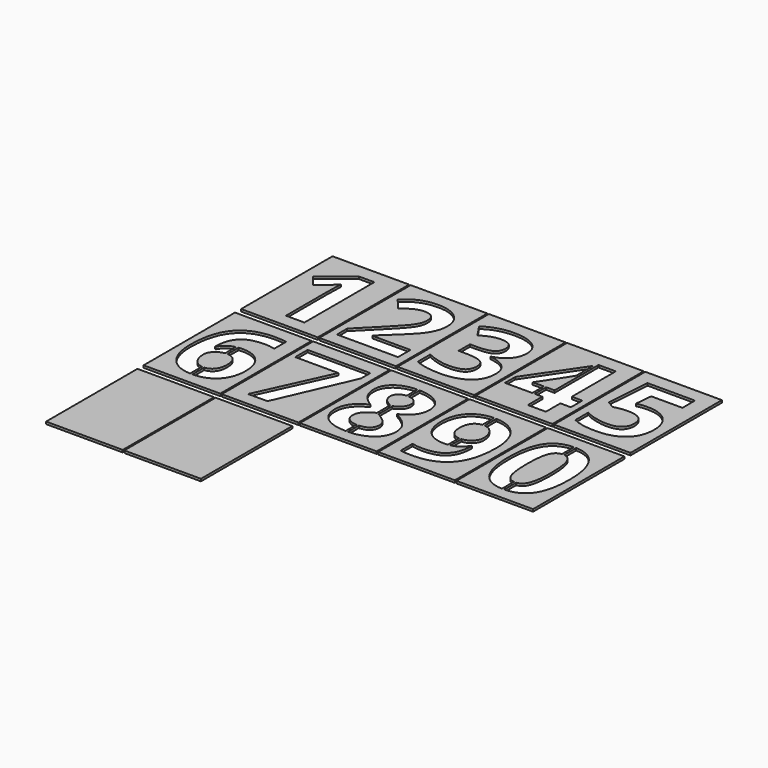
from build123d import *

# Parameters (mm, degrees)
F0_W      = 100
F0_H      = 149
F1_DEPTH  = 3
F2_W      = 3
F2_H      = 18.7174479167
F3_DEPTH  = 3
F4_W      = 3
F4_H      = 78.767856583
F5_DEPTH  = 3
F6_W      = 3
F6_H      = 129.1774585843
F7_DEPTH  = 3
F9_DEPTH  = 3
F10_W     = 3
F10_H     = 128.0932743102
F11_DEPTH = 3


with BuildPart() as f1:
    # F0 (on Top) → F1 (new body)
    with BuildSketch(Plane.XY):
        with Locations((-204, 238.5)):
            Rectangle(F0_W, F0_H)
        with BuildLine():
            Line((-185.0147569444, 295.0266927083), (-185.0147569444, 181))
            Line((-185.0147569444, 181), (-209.1228298611, 181))
            Line((-209.1228298611, 181), (-209.1228298611, 246.9852430556))
            Line((-209.1228298611, 246.9852430556), (-208.8732638889, 257.81640625))
            Line((-208.8732638889, 257.81640625), (-208.4989149306, 269.6707899306))
            add(Edge.make_bspline(
                [(-208.4989149306, 269.6707899306), (-214.4884982639, 263.6812065972), (-216.8344184028, 261.8094618056)],
                knots=[0, 0, 0, 1, 1, 1], degree=2))
            Line((-216.8344184028, 261.8094618056), (-229.9366319444, 251.2777777778))
            Line((-229.9366319444, 251.2777777778), (-241.56640625, 265.7775607639))
            Line((-241.56640625, 265.7775607639), (-204.8302951389, 295.0266927083))
            Line((-204.8302951389, 295.0266927083), (-185.0147569444, 295.0266927083))
        make_face(mode=Mode.SUBTRACT)
    extrude(amount=F1_DEPTH)


with BuildPart() as f1b:
    # F0 (on Top) → F1, piece 2 (new body)
    with BuildSketch(Plane.XY):
        with Locations((-102, 238.5)):
            Rectangle(F0_W, F0_H)
        with BuildLine():
            Line((-62.8997395833, 201.2897135417), (-62.8997395833, 181))
            Line((-62.8997395833, 181), (-142.6111111111, 181))
            Line((-142.6111111111, 181), (-142.6111111111, 197.7708333333))
            Line((-142.6111111111, 197.7708333333), (-113.9858940972, 226.6955295139))
            add(Edge.make_bspline(
                [(-113.9858940972, 226.6955295139), (-101.2580295139, 239.7228732639), (-97.3648003472, 244.7516276042)],
                knots=[0, 0, 0, 1, 1, 1], degree=2))
            add(Edge.make_bspline(
                [(-97.3648003472, 244.7516276042), (-93.4715711806, 249.7803819444), (-91.7495659722, 254.0729166667)],
                knots=[0, 0, 0, 1, 1, 1], degree=2))
            add(Edge.make_bspline(
                [(-91.7495659722, 254.0729166667), (-90.0275607639, 258.3654513889), (-90.0275607639, 262.9574652778)],
                knots=[0, 0, 0, 1, 1, 1], degree=2))
            add(Edge.make_bspline(
                [(-90.0275607639, 262.9574652778), (-90.0275607639, 269.8205295139), (-93.8209635417, 273.1771918403)],
                knots=[0, 0, 0, 1, 1, 1], degree=2))
            add(Edge.make_bspline(
                [(-93.8209635417, 273.1771918403), (-97.6143663194, 276.5338541667), (-103.9283854167, 276.5338541667)],
                knots=[0, 0, 0, 1, 1, 1], degree=2))
            add(Edge.make_bspline(
                [(-103.9283854167, 276.5338541667), (-110.5418836806, 276.5338541667), (-116.7810329861, 273.4891493056)],
                knots=[0, 0, 0, 1, 1, 1], degree=2))
            add(Edge.make_bspline(
                [(-116.7810329861, 273.4891493056), (-123.0201822917, 270.4444444444), (-129.8083767361, 264.8292100694)],
                knots=[0, 0, 0, 1, 1, 1], degree=2))
            Line((-129.8083767361, 264.8292100694), (-142.9105902778, 280.3522135417))
            add(Edge.make_bspline(
                [(-142.9105902778, 280.3522135417), (-134.5002170139, 287.5397135417), (-128.9598524306, 290.4970703125)],
                knots=[0, 0, 0, 1, 1, 1], degree=2))
            add(Edge.make_bspline(
                [(-128.9598524306, 290.4970703125), (-123.4194878472, 293.4544270833), (-116.8683810764, 295.0516493056)],
                knots=[0, 0, 0, 1, 1, 1], degree=2))
            add(Edge.make_bspline(
                [(-116.8683810764, 295.0516493056), (-110.3172743056, 296.6488715278), (-102.2063802083, 296.6488715278)],
                knots=[0, 0, 0, 1, 1, 1], degree=2))
            add(Edge.make_bspline(
                [(-102.2063802083, 296.6488715278), (-91.5249565972, 296.6488715278), (-83.3391927083, 292.7556423611)],
                knots=[0, 0, 0, 1, 1, 1], degree=2))
            add(Edge.make_bspline(
                [(-83.3391927083, 292.7556423611), (-75.1534288194, 288.8624131944), (-70.6238064236, 281.8371310764)],
                knots=[0, 0, 0, 1, 1, 1], degree=2))
            add(Edge.make_bspline(
                [(-70.6238064236, 281.8371310764), (-66.0941840278, 274.8118489583), (-66.0941840278, 265.7775607639)],
                knots=[0, 0, 0, 1, 1, 1], degree=2))
            add(Edge.make_bspline(
                [(-66.0941840278, 265.7775607639), (-66.0941840278, 257.8912760417), (-68.8643663194, 250.9907769097)],
                knots=[0, 0, 0, 1, 1, 1], degree=2))
            add(Edge.make_bspline(
                [(-68.8643663194, 250.9907769097), (-71.6345486111, 244.0902777778), (-77.4494357639, 236.8403862847)],
                knots=[0, 0, 0, 1, 1, 1], degree=2))
            add(Edge.make_bspline(
                [(-77.4494357639, 236.8403862847), (-83.2643229167, 229.5904947917), (-97.9138454861, 216.1638454861)],
                knots=[0, 0, 0, 1, 1, 1], degree=2))
            Line((-97.9138454861, 216.1638454861), (-112.5883246528, 202.3628472222))
            Line((-112.5883246528, 202.3628472222), (-112.5883246528, 201.2897135417))
            Line((-112.5883246528, 201.2897135417), (-62.8997395833, 201.2897135417))
        make_face(mode=Mode.SUBTRACT)
    extrude(amount=F1_DEPTH)


with BuildPart() as f1c:
    # F0 (on Top) → F1, piece 3 (new body)
    with BuildSketch(Plane.XY):
        with Locations((0, 238.5)):
            Rectangle(F0_W, F0_H)
        with BuildLine():
            add(Edge.make_bspline(
                [(24.4008246528, 289.4738498264), (34.6579861111, 282.298828125), (34.6579861111, 269.5210503472)],
                knots=[0, 0, 0, 1, 1, 1], degree=2))
            add(Edge.make_bspline(
                [(34.6579861111, 269.5210503472), (34.6579861111, 258.8396267361), (28.1817491319, 251.3526475694)],
                knots=[0, 0, 0, 1, 1, 1], degree=2))
            add(Edge.make_bspline(
                [(28.1817491319, 251.3526475694), (21.7055121528, 243.8656684028), (10.0008680556, 241.0455729167)],
                knots=[0, 0, 0, 1, 1, 1], degree=2))
            Line((10.0008680556, 241.0455729167), (10.0008680556, 240.5963541667))
            add(Edge.make_bspline(
                [(10.0008680556, 240.5963541667), (23.8268229167, 238.8743489583), (30.9144965278, 232.1984592014)],
                knots=[0, 0, 0, 1, 1, 1], degree=2))
            add(Edge.make_bspline(
                [(30.9144965278, 232.1984592014), (38.0021701389, 225.5225694444), (38.0021701389, 214.2172309028)],
                knots=[0, 0, 0, 1, 1, 1], degree=2))
            add(Edge.make_bspline(
                [(38.0021701389, 214.2172309028), (38.0021701389, 197.7708333333), (26.0729166667, 188.5992838542)],
                knots=[0, 0, 0, 1, 1, 1], degree=2))
            add(Edge.make_bspline(
                [(26.0729166667, 188.5992838542), (14.1436631944, 179.427734375), (-7.9928385417, 179.427734375)],
                knots=[0, 0, 0, 1, 1, 1], degree=2))
            add(Edge.make_bspline(
                [(-7.9928385417, 179.427734375), (-26.560546875, 179.427734375), (-40.9105902778, 185.5920138889)],
                knots=[0, 0, 0, 1, 1, 1], degree=2))
            Line((-40.9105902778, 185.5920138889), (-40.9105902778, 206.1063368056))
            add(Edge.make_bspline(
                [(-40.9105902778, 206.1063368056), (-34.2970920139, 202.7621527778), (-26.3359375, 200.6533203125)],
                knots=[0, 0, 0, 1, 1, 1], degree=2))
            add(Edge.make_bspline(
                [(-26.3359375, 200.6533203125), (-18.3747829861, 198.5444878472), (-10.5883246528, 198.5444878472)],
                knots=[0, 0, 0, 1, 1, 1], degree=2))
            add(Edge.make_bspline(
                [(-10.5883246528, 198.5444878472), (1.3658854167, 198.5444878472), (7.0559895833, 202.5999348958)],
                knots=[0, 0, 0, 1, 1, 1], degree=2))
            add(Edge.make_bspline(
                [(7.0559895833, 202.5999348958), (12.74609375, 206.6553819444), (12.74609375, 215.6397569444)],
                knots=[0, 0, 0, 1, 1, 1], degree=2))
            add(Edge.make_bspline(
                [(12.74609375, 215.6397569444), (12.74609375, 223.6508246528), (6.1949869792, 227.0074869792)],
                knots=[0, 0, 0, 1, 1, 1], degree=2))
            add(Edge.make_bspline(
                [(6.1949869792, 227.0074869792), (-0.3561197917, 230.3641493056), (-14.7061631944, 230.3641493056)],
                knots=[0, 0, 0, 1, 1, 1], degree=2))
            Line((-14.7061631944, 230.3641493056), (-23.3661024306, 230.3641493056))
            Line((-23.3661024306, 230.3641493056), (-23.3661024306, 248.8569878472))
            Line((-23.3661024306, 248.8569878472), (-14.5564236111, 248.8569878472))
            add(Edge.make_bspline(
                [(-14.5564236111, 248.8569878472), (-1.3044704861, 248.8569878472), (4.8223741319, 252.3259548611)],
                knots=[0, 0, 0, 1, 1, 1], degree=2))
            add(Edge.make_bspline(
                [(4.8223741319, 252.3259548611), (10.94921875, 255.794921875), (10.94921875, 264.2052951389)],
                knots=[0, 0, 0, 1, 1, 1], degree=2))
            add(Edge.make_bspline(
                [(10.94921875, 264.2052951389), (10.94921875, 277.1577690972), (-5.2725694444, 277.1577690972)],
                knots=[0, 0, 0, 1, 1, 1], degree=2))
            add(Edge.make_bspline(
                [(-5.2725694444, 277.1577690972), (-10.8878038194, 277.1577690972), (-16.7026909722, 275.2860243056)],
                knots=[0, 0, 0, 1, 1, 1], degree=2))
            add(Edge.make_bspline(
                [(-16.7026909722, 275.2860243056), (-22.517578125, 273.4142795139), (-29.6052517361, 268.822265625)],
                knots=[0, 0, 0, 1, 1, 1], degree=2))
            Line((-29.6052517361, 268.822265625), (-40.7608506944, 285.4184027778))
            add(Edge.make_bspline(
                [(-40.7608506944, 285.4184027778), (-25.1629774306, 296.6488715278), (-3.5505642361, 296.6488715278)],
                knots=[0, 0, 0, 1, 1, 1], degree=2))
            add(Edge.make_bspline(
                [(-3.5505642361, 296.6488715278), (14.1436631944, 296.6488715278), (24.4008246528, 289.4738498264)],
                knots=[0, 0, 0, 1, 1, 1], degree=2))
        make_face(mode=Mode.SUBTRACT)
    extrude(amount=F1_DEPTH)


with BuildPart() as f1d:
    # F0 (on Top) → F1, piece 4 (new body)
    with BuildSketch(Plane.XY):
        with Locations((102, 238.5)):
            Rectangle(F0_W, F0_H)
        Polygon((143.6707899306, 223.3513454861), (143.6707899306, 204.6338975694), (129.9446614583, 204.6338975694), (129.9446614583, 181), (106.3856336806, 181), (106.3856336806, 204.6338975694), (57.7202690972, 204.6338975694), (57.7202690972, 221.4047309028), (107.7332899306, 295.0266927083), (129.9446614583, 295.0266927083), (129.9446614583, 223.3513454861), align=None, mode=Mode.SUBTRACT)
    extrude(amount=F1_DEPTH)



with BuildPart() as f1e:
    # F0 (on Top) → F1, piece 5 (new body)
    with BuildSketch(Plane.XY):
        with BuildLine():
            Line((78.9333767361, 223.3513454861), (106.3856336806, 223.3513454861))
            Line((106.3856336806, 223.3513454861), (106.3856336806, 242.6927083333))
            add(Edge.make_bspline(
                [(106.3856336806, 242.6927083333), (106.3856336806, 247.5342881944), (106.7849392361, 256.7307942708)],
                knots=[0, 0, 0, 1, 1, 1], degree=2))
            add(Edge.make_bspline(
                [(106.7849392361, 256.7307942708), (107.1842447917, 265.9273003472), (107.4088541667, 267.4246961806)],
                knots=[0, 0, 0, 1, 1, 1], degree=2))
            Line((107.4088541667, 267.4246961806), (106.7849392361, 267.4246961806))
            add(Edge.make_bspline(
                [(106.7849392361, 267.4246961806), (103.8899739583, 261.0108506944), (99.8470052083, 254.9463975694)],
                knots=[0, 0, 0, 1, 1, 1], degree=2))
            Line((99.8470052083, 254.9463975694), (78.9333767361, 223.3513454861))
        make_face()
    extrude(amount=F1_DEPTH)


with BuildPart() as f1f:
    # F0 (on Top) → F1, piece 6 (new body)
    with BuildSketch(Plane.XY):
        with Locations((204, 238.5)):
            Rectangle(F0_W, F0_H)
        with BuildLine():
            add(Edge.make_bspline(
                [(193.1399739583, 252.7502170139), (197.9066840278, 253.8483072917), (204.9194878472, 253.8483072917)],
                knots=[0, 0, 0, 1, 1, 1], degree=2))
            add(Edge.make_bspline(
                [(204.9194878472, 253.8483072917), (221.4407552083, 253.8483072917), (231.2362196181, 244.564453125)],
                knots=[0, 0, 0, 1, 1, 1], degree=2))
            add(Edge.make_bspline(
                [(231.2362196181, 244.564453125), (241.0316840278, 235.2805989583), (241.0316840278, 219.1336805556)],
                knots=[0, 0, 0, 1, 1, 1], degree=2))
            add(Edge.make_bspline(
                [(241.0316840278, 219.1336805556), (241.0316840278, 200.0418836806), (229.2521701389, 189.7348090278)],
                knots=[0, 0, 0, 1, 1, 1], degree=2))
            add(Edge.make_bspline(
                [(229.2521701389, 189.7348090278), (217.47265625, 179.427734375), (195.5607638889, 179.427734375)],
                knots=[0, 0, 0, 1, 1, 1], degree=2))
            add(Edge.make_bspline(
                [(195.5607638889, 179.427734375), (176.5188802083, 179.427734375), (164.8391927083, 185.5920138889)],
                knots=[0, 0, 0, 1, 1, 1], degree=2))
            Line((164.8391927083, 185.5920138889), (164.8391927083, 206.4307725694))
            add(Edge.make_bspline(
                [(164.8391927083, 206.4307725694), (170.978515625, 203.1614583333), (179.1767578125, 201.0900607639)],
                knots=[0, 0, 0, 1, 1, 1], degree=2))
            add(Edge.make_bspline(
                [(179.1767578125, 201.0900607639), (187.375, 199.0186631944), (194.6872829861, 199.0186631944)],
                knots=[0, 0, 0, 1, 1, 1], degree=2))
            add(Edge.make_bspline(
                [(194.6872829861, 199.0186631944), (216.7738715278, 199.0186631944), (216.7738715278, 217.1121961806)],
                knots=[0, 0, 0, 1, 1, 1], degree=2))
            add(Edge.make_bspline(
                [(216.7738715278, 217.1121961806), (216.7738715278, 234.3572048611), (193.9136284722, 234.3572048611)],
                knots=[0, 0, 0, 1, 1, 1], degree=2))
            add(Edge.make_bspline(
                [(193.9136284722, 234.3572048611), (189.7957899306, 234.3572048611), (184.8044704861, 233.5336371528)],
                knots=[0, 0, 0, 1, 1, 1], degree=2))
            add(Edge.make_bspline(
                [(184.8044704861, 233.5336371528), (179.8131510417, 232.7100694444), (176.6935763889, 231.76171875)],
                knots=[0, 0, 0, 1, 1, 1], degree=2))
            Line((176.6935763889, 231.76171875), (167.0852864583, 236.927734375))
            Line((167.0852864583, 236.927734375), (171.3778211806, 295.0266927083))
            Line((171.3778211806, 295.0266927083), (233.2202690972, 295.0266927083))
            Line((233.2202690972, 295.0266927083), (233.2202690972, 274.5872395833))
            Line((233.2202690972, 274.5872395833), (192.5160590278, 274.5872395833))
            Line((192.5160590278, 274.5872395833), (190.4197048611, 252.201171875))
            Line((190.4197048611, 252.201171875), (193.1399739583, 252.7502170139))
        make_face(mode=Mode.SUBTRACT)
    extrude(amount=F1_DEPTH)


with BuildPart() as f1g:
    # F0 (on Top) → F1, piece 7 (new body)
    with BuildSketch(Plane.XY):
        with Locations((-204, 79.5)):
            Rectangle(F0_W, F0_H)
        with BuildLine():
            add(Edge.make_bspline(
                [(-240.2811414931, 43.3628472222), (-245.384765625, 54.5933159722), (-245.384765625, 70.4407552083)],
                knots=[0, 0, 0, 1, 1, 1], degree=2))
            add(Edge.make_bspline(
                [(-245.384765625, 70.4407552083), (-245.384765625, 104.2819010417), (-231.0721571181, 120.8156467014)],
                knots=[0, 0, 0, 1, 1, 1], degree=2))
            add(Edge.make_bspline(
                [(-231.0721571181, 120.8156467014), (-216.7595486111, 137.3493923611), (-188.2092013889, 137.3493923611)],
                knots=[0, 0, 0, 1, 1, 1], degree=2))
            add(Edge.make_bspline(
                [(-188.2092013889, 137.3493923611), (-178.4761284722, 137.3493923611), (-172.9357638889, 136.1764322917)],
                knots=[0, 0, 0, 1, 1, 1], degree=2))
            Line((-172.9357638889, 136.1764322917), (-172.9357638889, 116.9099392361))
            add(Edge.make_bspline(
                [(-172.9357638889, 116.9099392361), (-179.8736979167, 118.4822048611), (-186.6618923611, 118.4822048611)],
                knots=[0, 0, 0, 1, 1, 1], degree=2))
            add(Edge.make_bspline(
                [(-186.6618923611, 118.4822048611), (-199.0653211806, 118.4822048611), (-206.9016927083, 114.7387152778)],
                knots=[0, 0, 0, 1, 1, 1], degree=2))
            add(Edge.make_bspline(
                [(-206.9016927083, 114.7387152778), (-214.7380642361, 110.9952256944), (-218.6312934028, 103.6579861111)],
                knots=[0, 0, 0, 1, 1, 1], degree=2))
            add(Edge.make_bspline(
                [(-218.6312934028, 103.6579861111), (-222.5245225694, 96.3207465278), (-223.2233072917, 82.8441840278)],
                knots=[0, 0, 0, 1, 1, 1], degree=2))
            Line((-223.2233072917, 82.8441840278), (-222.2250434028, 82.8441840278))
            add(Edge.make_bspline(
                [(-222.2250434028, 82.8441840278), (-214.4884982639, 96.0961371528), (-197.4930555556, 96.0961371528)],
                knots=[0, 0, 0, 1, 1, 1], degree=2))
            add(Edge.make_bspline(
                [(-197.4930555556, 96.0961371528), (-182.2196180556, 96.0961371528), (-173.5596788194, 86.5003255208)],
                knots=[0, 0, 0, 1, 1, 1], degree=2))
            add(Edge.make_bspline(
                [(-173.5596788194, 86.5003255208), (-164.8997395833, 76.9045138889), (-164.8997395833, 59.9839409722)],
                knots=[0, 0, 0, 1, 1, 1], degree=2))
            add(Edge.make_bspline(
                [(-164.8997395833, 59.9839409722), (-164.8997395833, 41.7406684028), (-175.1943359375, 31.0842013889)],
                knots=[0, 0, 0, 1, 1, 1], degree=2))
            add(Edge.make_bspline(
                [(-175.1943359375, 31.0842013889), (-185.4889322917, 20.427734375), (-203.7322048611, 20.427734375)],
                knots=[0, 0, 0, 1, 1, 1], degree=2))
            add(Edge.make_bspline(
                [(-203.7322048611, 20.427734375), (-216.3602430556, 20.427734375), (-225.7688802083, 26.2800564236)],
                knots=[0, 0, 0, 1, 1, 1], degree=2))
            add(Edge.make_bspline(
                [(-225.7688802083, 26.2800564236), (-235.1775173611, 32.1323784722), (-240.2811414931, 43.3628472222)],
                knots=[0, 0, 0, 1, 1, 1], degree=2))
        make_face(mode=Mode.SUBTRACT)
    extrude(amount=F1_DEPTH)



with BuildPart() as f1h:
    # F0 (on Top) → F1, piece 8 (new body)
    with BuildSketch(Plane.XY):
        with BuildLine():
            add(Edge.make_bspline(
                [(-216.5723741319, 46.0955946181), (-211.693359375, 39.6942274306), (-204.2063802083, 39.6942274306)],
                knots=[0, 0, 0, 1, 1, 1], degree=2))
            add(Edge.make_bspline(
                [(-204.2063802083, 39.6942274306), (-196.4947916667, 39.6942274306), (-192.3519965278, 44.8851996528)],
                knots=[0, 0, 0, 1, 1, 1], degree=2))
            add(Edge.make_bspline(
                [(-192.3519965278, 44.8851996528), (-188.2092013889, 50.076171875), (-188.2092013889, 59.6595052083)],
                knots=[0, 0, 0, 1, 1, 1], degree=2))
            add(Edge.make_bspline(
                [(-188.2092013889, 59.6595052083), (-188.2092013889, 68.0199652778), (-192.0774739583, 72.8116319444)],
                knots=[0, 0, 0, 1, 1, 1], degree=2))
            add(Edge.make_bspline(
                [(-192.0774739583, 72.8116319444), (-195.9457465278, 77.6032986111), (-203.7322048611, 77.6032986111)],
                knots=[0, 0, 0, 1, 1, 1], degree=2))
            add(Edge.make_bspline(
                [(-203.7322048611, 77.6032986111), (-211.0694444444, 77.6032986111), (-216.2604166667, 72.8490668403)],
                knots=[0, 0, 0, 1, 1, 1], degree=2))
            add(Edge.make_bspline(
                [(-216.2604166667, 72.8490668403), (-221.4513888889, 68.0948350694), (-221.4513888889, 61.7808159722)],
                knots=[0, 0, 0, 1, 1, 1], degree=2))
            add(Edge.make_bspline(
                [(-221.4513888889, 61.7808159722), (-221.4513888889, 52.4969618056), (-216.5723741319, 46.0955946181)],
                knots=[0, 0, 0, 1, 1, 1], degree=2))
        make_face()
    extrude(amount=F1_DEPTH)


with BuildPart() as f1i:
    # F0 (on Top) → F1, piece 9 (new body)
    with BuildSketch(Plane.XY):
        with Locations((-102, 79.5)):
            Rectangle(F0_W, F0_H)
        Polygon((-106.0247395833, 22), (-131.3057725694, 22), (-88.4802517361, 115.5872395833), (-144.7074652778, 115.5872395833), (-144.7074652778, 135.876953125), (-62.8997395833, 135.876953125), (-62.8997395833, 120.7282986111), align=None, mode=Mode.SUBTRACT)
    extrude(amount=F1_DEPTH)


with BuildPart() as f1j:
    # F0 (on Top) → F1, piece 10 (new body)
    with BuildSketch(Plane.XY):
        with Locations((0, 79.5)):
            Rectangle(F0_W, F0_H)
        with BuildLine():
            add(Edge.make_bspline(
                [(-27.7335069444, 129.9372829861), (-17.6011284722, 137.4991319444), (-1.3044704861, 137.4991319444)],
                knots=[0, 0, 0, 1, 1, 1], degree=2))
            add(Edge.make_bspline(
                [(-1.3044704861, 137.4991319444), (15.0920138889, 137.4991319444), (25.1120876736, 130.0495876736)],
                knots=[0, 0, 0, 1, 1, 1], degree=2))
            add(Edge.make_bspline(
                [(25.1120876736, 130.0495876736), (35.1321614583, 122.6000434028), (35.1321614583, 109.9720052083)],
                knots=[0, 0, 0, 1, 1, 1], degree=2))
            add(Edge.make_bspline(
                [(35.1321614583, 109.9720052083), (35.1321614583, 101.2371961806), (30.2905815972, 94.4115668403)],
                knots=[0, 0, 0, 1, 1, 1], degree=2))
            add(Edge.make_bspline(
                [(30.2905815972, 94.4115668403), (25.4490017361, 87.5859375), (14.6927083333, 82.2202690972)],
                knots=[0, 0, 0, 1, 1, 1], degree=2))
            add(Edge.make_bspline(
                [(14.6927083333, 82.2202690972), (27.4704861111, 75.3572048611), (33.0482855903, 67.9076605903)],
                knots=[0, 0, 0, 1, 1, 1], degree=2))
            add(Edge.make_bspline(
                [(33.0482855903, 67.9076605903), (38.6260850694, 60.4581163194), (38.6260850694, 51.5486111111)],
                knots=[0, 0, 0, 1, 1, 1], degree=2))
            add(Edge.make_bspline(
                [(38.6260850694, 51.5486111111), (38.6260850694, 37.5230034722), (27.6327039931, 28.9753689236)],
                knots=[0, 0, 0, 1, 1, 1], degree=2))
            add(Edge.make_bspline(
                [(27.6327039931, 28.9753689236), (16.6393229167, 20.427734375), (-1.3044704861, 20.427734375)],
                knots=[0, 0, 0, 1, 1, 1], degree=2))
            add(Edge.make_bspline(
                [(-1.3044704861, 20.427734375), (-20.0219184028, 20.427734375), (-30.7033420139, 28.3888888889)],
                knots=[0, 0, 0, 1, 1, 1], degree=2))
            add(Edge.make_bspline(
                [(-30.7033420139, 28.3888888889), (-41.384765625, 36.3500434028), (-41.384765625, 50.9246961806)],
                knots=[0, 0, 0, 1, 1, 1], degree=2))
            add(Edge.make_bspline(
                [(-41.384765625, 50.9246961806), (-41.384765625, 60.6827256944), (-36.1937934028, 68.2445746528)],
                knots=[0, 0, 0, 1, 1, 1], degree=2))
            add(Edge.make_bspline(
                [(-36.1937934028, 68.2445746528), (-31.0028211806, 75.8064236111), (-19.5477430556, 81.5963541667)],
                knots=[0, 0, 0, 1, 1, 1], degree=2))
            add(Edge.make_bspline(
                [(-19.5477430556, 81.5963541667), (-29.3057725694, 87.7356770833), (-33.5858289931, 94.7609592014)],
                knots=[0, 0, 0, 1, 1, 1], degree=2))
            add(Edge.make_bspline(
                [(-33.5858289931, 94.7609592014), (-37.8658854167, 101.7862413194), (-37.8658854167, 110.1217447917)],
                knots=[0, 0, 0, 1, 1, 1], degree=2))
            add(Edge.make_bspline(
                [(-37.8658854167, 110.1217447917), (-37.8658854167, 122.3754340278), (-27.7335069444, 129.9372829861)],
                knots=[0, 0, 0, 1, 1, 1], degree=2))
        make_face(mode=Mode.SUBTRACT)
    extrude(amount=F1_DEPTH)



with BuildPart() as f1k:
    # F0 (on Top) → F1, piece 11 (new body)
    with BuildSketch(Plane.XY):
        with BuildLine():
            add(Edge.make_bspline(
                [(8.5284288194, 116.7601996528), (4.6351996528, 119.8797743056), (-1.4542100694, 119.8797743056)],
                knots=[0, 0, 0, 1, 1, 1], degree=2))
            add(Edge.make_bspline(
                [(-1.4542100694, 119.8797743056), (-7.6184895833, 119.8797743056), (-11.3994140625, 116.7227647569)],
                knots=[0, 0, 0, 1, 1, 1], degree=2))
            add(Edge.make_bspline(
                [(-11.3994140625, 116.7227647569), (-15.1803385417, 113.5657552083), (-15.1803385417, 108.25)],
                knots=[0, 0, 0, 1, 1, 1], degree=2))
            add(Edge.make_bspline(
                [(-15.1803385417, 108.25), (-15.1803385417, 103.5831163194), (-12.1730685764, 99.8770616319)],
                knots=[0, 0, 0, 1, 1, 1], degree=2))
            add(Edge.make_bspline(
                [(-12.1730685764, 99.8770616319), (-9.1657986111, 96.1710069444), (-1.3044704861, 92.2777777778)],
                knots=[0, 0, 0, 1, 1, 1], degree=2))
            add(Edge.make_bspline(
                [(-1.3044704861, 92.2777777778), (6.3572048611, 95.8465711806), (9.3894314236, 99.5900607639)],
                knots=[0, 0, 0, 1, 1, 1], degree=2))
            add(Edge.make_bspline(
                [(9.3894314236, 99.5900607639), (12.4216579861, 103.3335503472), (12.4216579861, 108.25)],
                knots=[0, 0, 0, 1, 1, 1], degree=2))
            add(Edge.make_bspline(
                [(12.4216579861, 108.25), (12.4216579861, 113.640625), (8.5284288194, 116.7601996528)],
                knots=[0, 0, 0, 1, 1, 1], degree=2))
        make_face()
    extrude(amount=F1_DEPTH)


with BuildPart() as f1l:
    # F0 (on Top) → F1, piece 12 (new body)
    with BuildSketch(Plane.XY):
        with BuildLine():
            add(Edge.make_bspline(
                [(-2.4774305556, 71.6885850694), (-19.0735677083, 64.0269097222), (-19.0735677083, 52.3472222222)],
                knots=[0, 0, 0, 1, 1, 1], degree=2))
            add(Edge.make_bspline(
                [(-19.0735677083, 52.3472222222), (-19.0735677083, 45.6338975694), (-14.3942057292, 41.8904079861)],
                knots=[0, 0, 0, 1, 1, 1], degree=2))
            add(Edge.make_bspline(
                [(-14.3942057292, 41.8904079861), (-9.71484375, 38.1469184028), (-1.6039496528, 38.1469184028)],
                knots=[0, 0, 0, 1, 1, 1], degree=2))
            add(Edge.make_bspline(
                [(-1.6039496528, 38.1469184028), (7.35546875, 38.1469184028), (11.7977430556, 42.0027126736)],
                knots=[0, 0, 0, 1, 1, 1], degree=2))
            add(Edge.make_bspline(
                [(11.7977430556, 42.0027126736), (16.2400173611, 45.8585069444), (16.2400173611, 52.1725260417)],
                knots=[0, 0, 0, 1, 1, 1], degree=2))
            add(Edge.make_bspline(
                [(16.2400173611, 52.1725260417), (16.2400173611, 57.4134114583), (11.8351779514, 61.9679904514)],
                knots=[0, 0, 0, 1, 1, 1], degree=2))
            add(Edge.make_bspline(
                [(11.8351779514, 61.9679904514), (7.4303385417, 66.5225694444), (-2.4774305556, 71.6885850694)],
                knots=[0, 0, 0, 1, 1, 1], degree=2))
        make_face()
    extrude(amount=F1_DEPTH)


with BuildPart() as f1m:
    # F0 (on Top) → F1, piece 13 (new body)
    with BuildSketch(Plane.XY):
        with BuildLine():
            add(Edge.make_bspline(
                [(111.8136935764, 111.6066623264), (106.9346788194, 118.0080295139), (99.3728298611, 118.0080295139)],
                knots=[0, 0, 0, 1, 1, 1], degree=2))
            add(Edge.make_bspline(
                [(99.3728298611, 118.0080295139), (91.8858506944, 118.0080295139), (87.6806640625, 112.8544921875)],
                knots=[0, 0, 0, 1, 1, 1], degree=2))
            add(Edge.make_bspline(
                [(87.6806640625, 112.8544921875), (83.4754774306, 107.7009548611), (83.4754774306, 98.0427517361)],
                knots=[0, 0, 0, 1, 1, 1], degree=2))
            add(Edge.make_bspline(
                [(83.4754774306, 98.0427517361), (83.4754774306, 89.7821180556), (87.2938368056, 84.9405381944)],
                knots=[0, 0, 0, 1, 1, 1], degree=2))
            add(Edge.make_bspline(
                [(87.2938368056, 84.9405381944), (91.1121961806, 80.0989583333), (98.8986545139, 80.0989583333)],
                knots=[0, 0, 0, 1, 1, 1], degree=2))
            add(Edge.make_bspline(
                [(98.8986545139, 80.0989583333), (106.2358940972, 80.0989583333), (111.4643012153, 84.9031032986)],
                knots=[0, 0, 0, 1, 1, 1], degree=2))
            add(Edge.make_bspline(
                [(111.4643012153, 84.9031032986), (116.6927083333, 89.7072482639), (116.6927083333, 95.9463975694)],
                knots=[0, 0, 0, 1, 1, 1], degree=2))
            add(Edge.make_bspline(
                [(116.6927083333, 95.9463975694), (116.6927083333, 105.2052951389), (111.8136935764, 111.6066623264)],
                knots=[0, 0, 0, 1, 1, 1], degree=2))
        make_face()
    extrude(amount=F1_DEPTH)



with BuildPart() as f1n:
    # F0 (on Top) → F1, piece 14 (new body)
    with BuildSketch(Plane.XY):
        with Locations((102, 79.5)):
            Rectangle(F0_W, F0_H)
        with BuildLine():
            add(Edge.make_bspline(
                [(135.5598958333, 114.2271050347), (140.6260850694, 102.9592013889), (140.6260850694, 87.361328125)],
                knots=[0, 0, 0, 1, 1, 1], degree=2))
            add(Edge.make_bspline(
                [(140.6260850694, 87.361328125), (140.6260850694, 53.669921875), (126.4382595486, 37.048828125)],
                knots=[0, 0, 0, 1, 1, 1], degree=2))
            add(Edge.make_bspline(
                [(126.4382595486, 37.048828125), (112.2504340278, 20.427734375), (83.4754774306, 20.427734375)],
                knots=[0, 0, 0, 1, 1, 1], degree=2))
            add(Edge.make_bspline(
                [(83.4754774306, 20.427734375), (73.3181423611, 20.427734375), (68.1022135417, 21.5258246528)],
                knots=[0, 0, 0, 1, 1, 1], degree=2))
            Line((68.1022135417, 21.5258246528), (68.1022135417, 40.8671875))
            add(Edge.make_bspline(
                [(68.1022135417, 40.8671875), (74.6657986111, 39.2450086806), (81.8283420139, 39.2450086806)],
                knots=[0, 0, 0, 1, 1, 1], degree=2))
            add(Edge.make_bspline(
                [(81.8283420139, 39.2450086806), (93.9073350694, 39.2450086806), (101.7062717014, 42.7888454861)],
                knots=[0, 0, 0, 1, 1, 1], degree=2))
            add(Edge.make_bspline(
                [(101.7062717014, 42.7888454861), (109.5052083333, 46.3326822917), (113.6480034722, 53.9319661458)],
                knots=[0, 0, 0, 1, 1, 1], degree=2))
            add(Edge.make_bspline(
                [(113.6480034722, 53.9319661458), (117.7907986111, 61.53125), (118.4147135417, 74.8830295139)],
                knots=[0, 0, 0, 1, 1, 1], degree=2))
            Line((118.4147135417, 74.8830295139), (117.4663628472, 74.8830295139))
            add(Edge.make_bspline(
                [(117.4663628472, 74.8830295139), (112.94921875, 67.5457899306), (107.0220269097, 64.5884331597)],
                knots=[0, 0, 0, 1, 1, 1], degree=2))
            add(Edge.make_bspline(
                [(107.0220269097, 64.5884331597), (101.0948350694, 61.6310763889), (92.2102864583, 61.6310763889)],
                knots=[0, 0, 0, 1, 1, 1], degree=2))
            add(Edge.make_bspline(
                [(92.2102864583, 61.6310763889), (77.3111979167, 61.6310763889), (68.7261284722, 71.1769748264)],
                knots=[0, 0, 0, 1, 1, 1], degree=2))
            add(Edge.make_bspline(
                [(68.7261284722, 71.1769748264), (60.1410590278, 80.7228732639), (60.1410590278, 97.7183159722)],
                knots=[0, 0, 0, 1, 1, 1], degree=2))
            add(Edge.make_bspline(
                [(60.1410590278, 97.7183159722), (60.1410590278, 116.0614149306), (70.5604383681, 126.7054036458)],
                knots=[0, 0, 0, 1, 1, 1], degree=2))
            add(Edge.make_bspline(
                [(70.5604383681, 126.7054036458), (80.9798177083, 137.3493923611), (98.8986545139, 137.3493923611)],
                knots=[0, 0, 0, 1, 1, 1], degree=2))
            add(Edge.make_bspline(
                [(98.8986545139, 137.3493923611), (111.5516493056, 137.3493923611), (121.0226779514, 131.4222005208)],
                knots=[0, 0, 0, 1, 1, 1], degree=2))
            add(Edge.make_bspline(
                [(121.0226779514, 131.4222005208), (130.4937065972, 125.4950086806), (135.5598958333, 114.2271050347)],
                knots=[0, 0, 0, 1, 1, 1], degree=2))
        make_face(mode=Mode.SUBTRACT)
    extrude(amount=F1_DEPTH)


with BuildPart() as f1o:
    # F0 (on Top) → F1, piece 15 (new body)
    with BuildSketch(Plane.XY):
        with BuildLine():
            add(Edge.make_bspline(
                [(190.4072265625, 109.1484375), (186.7510850694, 99.9893663194), (186.7510850694, 79.0008680556)],
                knots=[0, 0, 0, 1, 1, 1], degree=2))
            add(Edge.make_bspline(
                [(186.7510850694, 79.0008680556), (186.7510850694, 58.0373263889), (190.3697916667, 48.953125)],
                knots=[0, 0, 0, 1, 1, 1], degree=2))
            add(Edge.make_bspline(
                [(190.3697916667, 48.953125), (193.9884982639, 39.8689236111), (202.5735677083, 39.8689236111)],
                knots=[0, 0, 0, 1, 1, 1], degree=2))
            add(Edge.make_bspline(
                [(202.5735677083, 39.8689236111), (211.0088975694, 39.8689236111), (214.7523871528, 49.0654296875)],
                knots=[0, 0, 0, 1, 1, 1], degree=2))
            add(Edge.make_bspline(
                [(214.7523871528, 49.0654296875), (218.4958767361, 58.2619357639), (218.4958767361, 79.0008680556)],
                knots=[0, 0, 0, 1, 1, 1], degree=2))
            add(Edge.make_bspline(
                [(218.4958767361, 79.0008680556), (218.4958767361, 99.9893663194), (214.7024739583, 109.1484375)],
                knots=[0, 0, 0, 1, 1, 1], degree=2))
            add(Edge.make_bspline(
                [(214.7024739583, 109.1484375), (210.9090711806, 118.3075086806), (202.5735677083, 118.3075086806)],
                knots=[0, 0, 0, 1, 1, 1], degree=2))
            add(Edge.make_bspline(
                [(202.5735677083, 118.3075086806), (194.0633680556, 118.3075086806), (190.4072265625, 109.1484375)],
                knots=[0, 0, 0, 1, 1, 1], degree=2))
        make_face()
    extrude(amount=F1_DEPTH)



with BuildPart() as f1p:
    # F0 (on Top) → F1, piece 16 (new body)
    with BuildSketch(Plane.XY):
        with Locations((204, 79.5)):
            Rectangle(F0_W, F0_H)
        with BuildLine():
            add(Edge.make_bspline(
                [(232.4091796875, 122.849609375), (242.5041232639, 107.8756510417), (242.5041232639, 79.0008680556)],
                knots=[0, 0, 0, 1, 1, 1], degree=2))
            add(Edge.make_bspline(
                [(242.5041232639, 79.0008680556), (242.5041232639, 49.1527777778), (232.7211371528, 34.7902560764)],
                knots=[0, 0, 0, 1, 1, 1], degree=2))
            add(Edge.make_bspline(
                [(232.7211371528, 34.7902560764), (222.9381510417, 20.427734375), (202.5735677083, 20.427734375)],
                knots=[0, 0, 0, 1, 1, 1], degree=2))
            add(Edge.make_bspline(
                [(202.5735677083, 20.427734375), (182.8328993056, 20.427734375), (172.8128255208, 35.251953125)],
                knots=[0, 0, 0, 1, 1, 1], degree=2))
            add(Edge.make_bspline(
                [(172.8128255208, 35.251953125), (162.7927517361, 50.076171875), (162.7927517361, 79.0008680556)],
                knots=[0, 0, 0, 1, 1, 1], degree=2))
            add(Edge.make_bspline(
                [(162.7927517361, 79.0008680556), (162.7927517361, 109.1983506944), (172.55078125, 123.5109592014)],
                knots=[0, 0, 0, 1, 1, 1], degree=2))
            add(Edge.make_bspline(
                [(172.55078125, 123.5109592014), (182.3088107639, 137.8235677083), (202.5735677083, 137.8235677083)],
                knots=[0, 0, 0, 1, 1, 1], degree=2))
            add(Edge.make_bspline(
                [(202.5735677083, 137.8235677083), (222.3142361111, 137.8235677083), (232.4091796875, 122.849609375)],
                knots=[0, 0, 0, 1, 1, 1], degree=2))
        make_face(mode=Mode.SUBTRACT)
    extrude(amount=F1_DEPTH)


with BuildPart() as f1q:
    # F0 (on Top) → F1, piece 17 (new body)
    with BuildSketch(Plane.XY):
        with Locations((-204, -79.5)):
            Rectangle(F0_W, F0_H)
    extrude(amount=F1_DEPTH)


with BuildPart() as f1r:
    # F0 (on Top) → F1, piece 18 (new body)
    with BuildSketch(Plane.XY):
        with Locations((-102, -79.5)):
            Rectangle(F0_W, F0_H)
    extrude(amount=F1_DEPTH)


with BuildPart() as f1d_1:
    add(f1d.part)

    add(f1e.part)  # F3 merges F1e
    # F2 (on face) → F3 (join, through all)
    with BuildSketch(Plane.XY.offset(3)):
        Polygon((107.4088541667, 294.5491051318), (104.4088541667, 290.1329374671), (104.4088541667, 223.3513454861), (106.3856336806, 223.3513454861), (107.4088541667, 223.3513454861), (107.4088541667, 267.4246961806), align=None)
        with Locations((94.8856336806, 213.9926215278)):
            Rectangle(F2_W, F2_H)
    extrude(amount=-F3_DEPTH)


with BuildPart() as f1g_1:
    add(f1g.part)

    add(f1h.part)  # F5 merges F1h
    # F4 (on face) → F5 (join, through all)
    with BuildSketch(Plane.XY.offset(3)):
        with Locations((-204.2063802083, 59.4865353778)):
            Rectangle(F4_W, F4_H)
    extrude(amount=-F5_DEPTH)


with BuildPart() as f1j_1:
    add(f1j.part)

    add(f1k.part)  # F7 merges F1k

    add(f1l.part)  # F7 merges F1l
    # F6 (on face) → F7 (join, through all)
    with BuildSketch(Plane.XY.offset(3)):
        with Locations((-1.3044704861, 79.6763710678)):
            Rectangle(F6_W, F6_H)
    extrude(amount=-F7_DEPTH)


with BuildPart() as f1m_1:
    add(f1m.part)

    add(f1n.part)  # F9 merges F1n
    # F8 (on face) → F9 (join, through all)
    with BuildSketch(Plane.XY.offset(3)):
        with BuildLine():
            add(Edge.make_bspline(
                [(97.3986545139, 137.3304114529), (98.1419678047, 137.3493923611), (98.8986545139, 137.3493923611)],
                knots=[0.9577714381, 0.9577714381, 0.9577714381, 1, 1, 1], degree=2))
            Line((97.3986545139, 137.3304114529), (97.3986545139, 61.9111700967))
            add(Edge.make_bspline(
                [(100.3986545139, 62.3790629225), (98.9549760294, 62.0887949942), (97.3986545139, 61.9111700967)],
                knots=[0.4970844901, 0.4970844901, 0.4970844901, 0.6922487566, 0.6922487566, 0.6922487566], degree=2))
            Line((100.3986545139, 62.3790629225), (100.3986545139, 137.3282510373))
            add(Edge.make_bspline(
                [(98.8986545139, 137.3493923611), (99.6543292903, 137.3493923611), (100.3986545139, 137.3282510373)],
                knots=[0, 0, 0, 0.0597229975, 0.0597229975, 0.0597229975], degree=2))
        make_face()
    extrude(amount=-F9_DEPTH)


with BuildPart() as f1o_1:
    add(f1o.part)

    add(f1p.part)  # F11 merges F1p
    # F10 (on face) → F11 (join, through all)
    with BuildSketch(Plane.XY.offset(3)):
        with Locations((202.5735677083, 80.951361917)):
            Rectangle(F10_W, F10_H)
    extrude(amount=-F11_DEPTH)


solid = Compound([f1.part, f1b.part, f1c.part, f1f.part, f1i.part, f1q.part, f1r.part, f1d_1.part, f1g_1.part, f1j_1.part, f1m_1.part, f1o_1.part])
